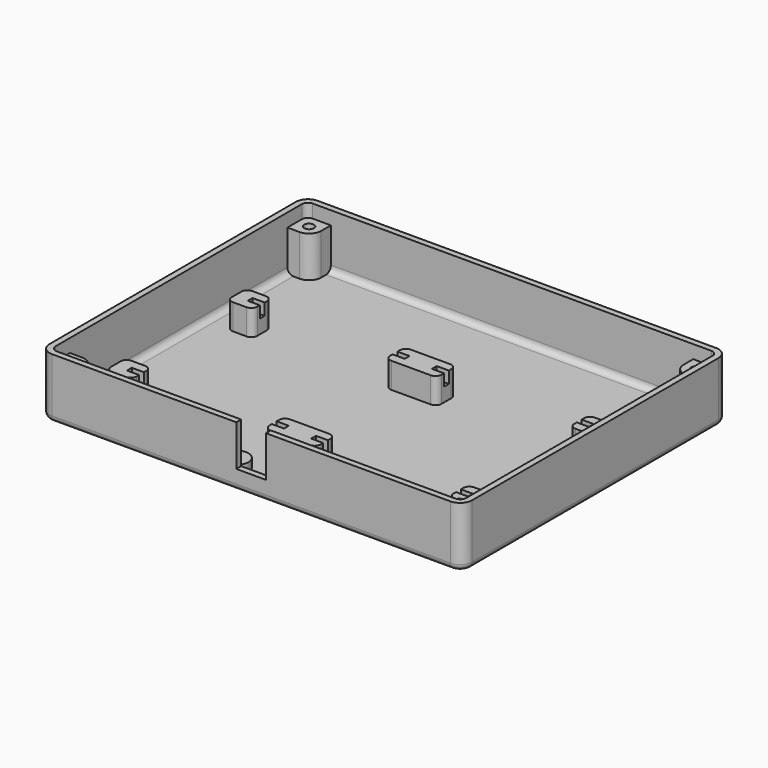
from build123d import *

# Parameters (mm, degrees)
SKETCH007_W     = 140
SKETCH007_H     = 110
PAD003_DEPTH    = 20
SKETCH008_W     = 136
SKETCH008_H     = 106
POCKET004_DEPTH = 18
SKETCH009_R     = 4
SKETCH009_R_2   = 1.1
PAD004_DEPTH    = 3
SKETCH010_R     = 1.6
PAD005_DEPTH    = 13.6
SKETCH011_R     = 3
POCKET005_DEPTH = 10
SKETCH012_W     = 9.8
SKETCH012_H     = 13.6
POCKET006_DEPTH = 2
SKETCH014_W     = 17
SKETCH014_H     = 8
SKETCH014_W_2   = 8.5
PAD007_DEPTH    = 8.5
SKETCH015_W     = 52
SKETCH015_H     = 2
POCKET007_DEPTH = 3.9
FILLET_R        = 2
FILLET001_R     = 4
FILLET002_R     = 2


with BuildPart() as part:
    # Sketch007 → Pad003 (new body)
    with BuildSketch(Plane.XY):
        with Locations((50, -22)):
            Rectangle(SKETCH007_W, SKETCH007_H)
    extrude(amount=PAD003_DEPTH)

    # Sketch008 (on Face6 of Pad003) → Pocket004 (cut)
    with BuildSketch(Plane.XY.offset(20)):
        with Locations((50, -22)):
            Rectangle(SKETCH008_W, SKETCH008_H)
    extrude(amount=-POCKET004_DEPTH, mode=Mode.SUBTRACT)

    # Sketch009 (on Face11 of Pocket004) → Pad004 (join)
    with BuildSketch(Plane.XY.offset(2)):
        with Locations((39.5, -70)):
            Circle(SKETCH009_R)
        with Locations((39.5, -70)):
            Circle(SKETCH009_R_2, mode=Mode.SUBTRACT)
        with Locations((60.5, -70)):
            Circle(SKETCH009_R)
        with Locations((60.5, -70)):
            Circle(SKETCH009_R_2, mode=Mode.SUBTRACT)
    extrude(amount=PAD004_DEPTH)

    # Sketch010 (on Face11 of Pad004) → Pad005 (join)
    with BuildSketch(Plane.XY.offset(2)):
        with BuildLine():
            Line((110, -71), (110, -75))
            Line((110, -75), (118, -75))
            Line((118, -75), (118, -67))
            Line((118, -67), (114, -67))
            ThreePointArc((114, -67), (111.171573, -68.171573), (110, -71))
        make_face()
        with Locations((114, -71)):
            Circle(SKETCH010_R, mode=Mode.SUBTRACT)
        with BuildLine():
            Line((-14, -67), (-18, -67))
            Line((-18, -67), (-18, -75))
            Line((-18, -75), (-10, -75))
            Line((-10, -75), (-10, -71))
            ThreePointArc((-10, -71), (-11.171573, -68.171573), (-14, -67))
        make_face()
        with Locations((-14, -71)):
            Circle(SKETCH010_R, mode=Mode.SUBTRACT)
        with BuildLine():
            Line((-10, 27), (-10, 31))
            Line((-10, 31), (-18, 31))
            Line((-18, 31), (-18, 23))
            Line((-18, 23), (-14, 23))
            ThreePointArc((-14, 23), (-11.171573, 24.171573), (-10, 27))
        make_face()
        with Locations((-14, 27)):
            Circle(SKETCH010_R, mode=Mode.SUBTRACT)
        with BuildLine():
            Line((110, 27), (110, 31))
            Line((110, 31), (118, 31))
            Line((118, 31), (118, 23))
            Line((118, 23), (114, 23))
            ThreePointArc((110, 27), (111.171573, 24.171573), (114, 23))
        make_face()
        with Locations((114, 27)):
            Circle(SKETCH010_R, mode=Mode.SUBTRACT)
    extrude(amount=PAD005_DEPTH)

    # Sketch011 (on Face4 of Pad005) → Pocket005 (cut)
    with BuildSketch(Plane(origin=(0, 0, 0), x_dir=(1, 0, 0), z_dir=(0, 0, -1))):
        with Locations((-14, 71)):
            Circle(SKETCH011_R)
        with Locations((114, 71)):
            Circle(SKETCH011_R)
        with Locations((-14, -27)):
            Circle(SKETCH011_R)
        with Locations((114, -27)):
            Circle(SKETCH011_R)
    extrude(amount=-POCKET005_DEPTH, mode=Mode.SUBTRACT)

    # Sketch012 (on Face6 of Pocket005) → Pocket006 (cut)
    with BuildSketch(Plane.XZ.offset(77)):
        with Locations((50, 13.2)):
            Rectangle(SKETCH012_W, SKETCH012_H)
    extrude(amount=-POCKET006_DEPTH, mode=Mode.SUBTRACT)

    # Sketch014 (on Face24 of Pocket006) → Pad007 (join)
    with BuildSketch(Plane.XY.offset(2)):
        with Locations((50, -6.8)):
            Rectangle(SKETCH014_W, SKETCH014_H)
        with Locations((50, -56.8)):
            Rectangle(SKETCH014_W, SKETCH014_H)
        with Locations((-6.75, -6.8)):
            Rectangle(SKETCH014_W_2, SKETCH014_H)
        with Locations((106.75, -6.8)):
            Rectangle(SKETCH014_W_2, SKETCH014_H)
        with Locations((-6.75, -56.8)):
            Rectangle(SKETCH014_W_2, SKETCH014_H)
        with Locations((106.75, -56.8)):
            Rectangle(SKETCH014_W_2, SKETCH014_H)
    extrude(amount=PAD007_DEPTH)

    # Sketch015 (on Face74 of Pad007) → Pocket007 (cut)
    with BuildSketch(Plane.XY.offset(10.5)):
        with Locations((19.5, -6.8)):
            Rectangle(SKETCH015_W, SKETCH015_H)
        with Locations((19.5, -56.8)):
            Rectangle(SKETCH015_W, SKETCH015_H)
        with Locations((80.5, -6.8)):
            Rectangle(SKETCH015_W, SKETCH015_H)
        with Locations((80.5, -56.8)):
            Rectangle(SKETCH015_W, SKETCH015_H)
    extrude(amount=-POCKET007_DEPTH, mode=Mode.SUBTRACT)

    # Fillet
    fillet_edges = [part.edges().sort_by_distance(p)[0] for p in [
        (-18, -22, 2),
        (50, 31, 2),
        (118, -22, 2),
        (50, -75, 2),
        (-18, 31, 17.8),
        (118, 31, 17.8),
        (118, -75, 17.8),
        (-18, -75, 17.8),
        (-11, -10.8, 6.25),
        (-2.5, -10.8, 6.25),
        (41.5, -10.8, 6.25),
        (58.5, -10.8, 6.25),
        (102.5, -10.8, 6.25),
        (111, -10.8, 6.25),
        (-11, -60.8, 6.25),
        (-2.5, -60.8, 6.25),
        (41.5, -60.8, 6.25),
        (58.5, -60.8, 6.25),
        (102.5, -60.8, 6.25),
        (111, -60.8, 6.25),
        (-11, -52.8, 6.25),
        (-2.5, -52.8, 6.25),
        (41.5, -52.8, 6.25),
        (58.5, -52.8, 6.25),
        (102.5, -52.8, 6.25),
        (111, -52.8, 6.25),
        (-11, -2.8, 6.25),
        (-2.5, -2.8, 6.25),
        (41.5, -2.8, 6.25),
        (58.5, -2.8, 6.25),
        (102.5, -2.8, 6.25),
        (111, -2.8, 6.25),
    ]]
    fillet(fillet_edges, radius=FILLET_R)

    # Fillet001
    fillet001_edges = [part.edges().sort_by_distance(p)[0] for p in [
        (120, 33, 10),
        (120, -77, 10),
        (-20, 33, 10),
        (-20, -77, 10),
    ]]
    fillet(fillet001_edges, radius=FILLET001_R)

    # Fillet002
    fillet002_edges = [part.edges().sort_by_distance(p)[0] for p in [
        (-20, -22, 0),
    ]]
    fillet(fillet002_edges, radius=FILLET002_R)


with BuildPart() as part_1:
    # Body001 placement: moved
    add(part.part.moved(Location((0, 0, -23))))


solid = part_1.part
